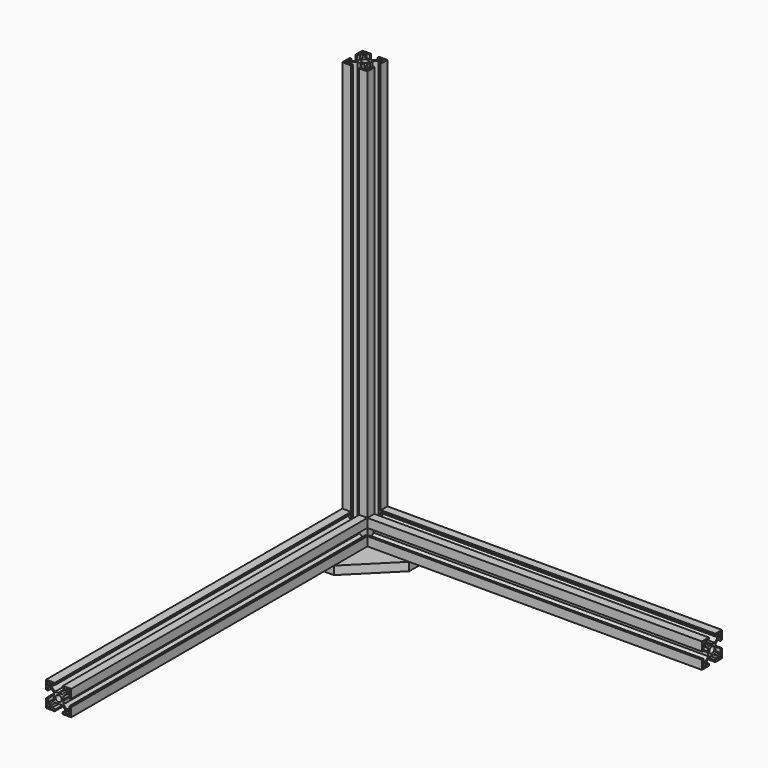
from build123d import *

# Parameters (mm, degrees)
F2_DEPTH  = 443
F1_R      = 3.7
F1_W      = 4
F1_H      = 4
F3_DEPTH  = 443.001
F7_DEPTH  = 500
F6_R      = 3.7
F6_W      = 4
F6_H      = 4
F8_DEPTH  = 500.001
F14_DEPTH = 400
F13_R     = 3.7
F13_W     = 4
F13_H     = 4
F15_DEPTH = 400.001
F19_DEPTH = 10


with BuildPart() as f2:
    # F0 (on Front) → F2 (new body)
    with BuildSketch(Plane.XZ):
        Polygon((-4.6, 15), (-15, 15), (-15, 4.6), (-14.5, 4.6), (-14.5, 4.1), (-12.8, 4.1), (-12.8, 8.399857), (-9.8, 8.399857), (-5.750143, 4.35), (-5.750143, 0.500143), (-5.25, 0), (-5.750143, -0.500143), (-5.750143, -4.35), (-9.800143, -8.4), (-12.800143, -8.4), (-12.800143, -4.1), (-14.500143, -4.1), (-14.500143, -4.286059), (-15, -4.286059), (-15, -15), (-4.6, -15), (-4.6, -14.5), (-4.085858, -14.5), (-4.085858, -12.8), (-8.4, -12.8), (-8.4, -9.8), (-4.35, -5.75), (-0.5, -5.75), (0, -5.25), (0.5, -5.75), (4.35, -5.75), (8.4, -9.8), (8.4, -12.8), (4.608557, -12.8), (4.608557, -14.5), (5.108532, -14.5), (5.108532, -15), (15, -15), (15, -4.286059), (14.5, -4.286059), (14.5, -3.786059), (12.8, -3.786059), (12.8, -8.4), (9.8, -8.4), (5.75, -4.35), (5.75, -0.5), (5.25, 0), (5.75, 0.5), (5.75, 4.35), (9.8, 8.399857), (12.8, 8.399857), (12.8, 4.1), (14.5, 4.1), (14.5, 4.595042), (15, 4.595042), (15, 14.995042), (5.108532, 14.995042), (5.108532, 14.495042), (4.608557, 14.5), (4.608557, 12.8), (8.4, 12.8), (8.4, 9.8), (4.35, 5.75), (0.5, 5.75), (0, 5.25), (-0.5, 5.75), (-4.35, 5.75), (-8.4, 9.8), (-8.4, 12.8), (-4.1, 12.8), (-4.1, 14.5), (-4.6, 14.5), align=None)
    extrude(amount=F2_DEPTH)

    # F1 (on Front) → F3 (cut, through all)
    with BuildSketch(Plane.XZ):
        Circle(F1_R)
        with Locations((11.72, 11.715042)):
            Rectangle(F1_W, F1_H)
        with Locations((11.72, -11.72)):
            Rectangle(F1_W, F1_H)
        with Locations((-11.72, -11.72)):
            Rectangle(F1_W, F1_H)
        with Locations((-11.72, 11.719589)):
            Rectangle(F1_W, F1_H)
    extrude(amount=F3_DEPTH, mode=Mode.SUBTRACT)


with BuildPart() as f7:
    # F5 (on offset) → F7 (new body)
    with BuildSketch(Plane.XY.offset(15)):
        Polygon((-4.65688, 14.974191), (-15.05688, 14.974191), (-15.05688, 4.574191), (-14.55688, 4.574191), (-14.55688, 4.074191), (-12.85688, 4.074191), (-12.85688, 8.374048), (-9.85688, 8.374048), (-5.807023, 4.324191), (-5.807023, 0.474333), (-5.30688, -0.025809), (-5.807023, -0.525952), (-5.807023, -4.375809), (-9.857023, -8.425809), (-12.857023, -8.425809), (-12.857023, -4.125809), (-14.557023, -4.125809), (-14.557023, -4.311869), (-15.05688, -4.311869), (-15.05688, -15.025809), (-4.65688, -15.025809), (-4.65688, -14.525809), (-4.142738, -14.525809), (-4.142738, -12.825809), (-8.45688, -12.825809), (-8.45688, -9.825809), (-4.40688, -5.775809), (-0.55688, -5.775809), (-0.05688, -5.275809), (0.44312, -5.775809), (4.29312, -5.775809), (8.34312, -9.825809), (8.34312, -12.825809), (4.551677, -12.825809), (4.551677, -14.525809), (5.051652, -14.525809), (5.051652, -15.025809), (14.94312, -15.025809), (14.94312, -4.311869), (14.44312, -4.311869), (14.44312, -3.811869), (12.74312, -3.811869), (12.74312, -8.425809), (9.74312, -8.425809), (5.69312, -4.375809), (5.69312, -0.525809), (5.19312, -0.025809), (5.69312, 0.474191), (5.69312, 4.324191), (9.74312, 8.374048), (12.74312, 8.374048), (12.74312, 4.074191), (14.44312, 4.074191), (14.44312, 4.569232), (14.94312, 4.569232), (14.94312, 14.969232), (5.051652, 14.969232), (5.051652, 14.469232), (4.551677, 14.474191), (4.551677, 12.774191), (8.34312, 12.774191), (8.34312, 9.774191), (4.29312, 5.724191), (0.44312, 5.724191), (-0.05688, 5.224191), (-0.55688, 5.724191), (-4.40688, 5.724191), (-8.45688, 9.774191), (-8.45688, 12.774191), (-4.15688, 12.774191), (-4.15688, 14.474191), (-4.65688, 14.474191), align=None)
    extrude(amount=F7_DEPTH)

    # F6 (on offset) → F8 (cut, through all)
    with BuildSketch(Plane.XY.offset(15)):
        Circle(F6_R)
        with Locations((11.66312, 11.689232)):
            Rectangle(F6_W, F6_H)
        with Locations((11.66312, -11.745809)):
            Rectangle(F6_W, F6_H)
        with Locations((-11.77688, -11.745809)):
            Rectangle(F6_W, F6_H)
        with Locations((-11.77688, 11.694191)):
            Rectangle(F6_W, F6_H)
    extrude(amount=F8_DEPTH, mode=Mode.SUBTRACT)


with BuildPart() as f7_1:
    # F9: moved
    add(f7.part.moved(Location((0, 15, 0))))


with BuildPart() as f7_2:
    # F10: moved
    add(f7_1.part.moved(Location((0, 0, -30))))


with BuildPart() as f14:
    # F12 (on offset) → F14 (new body)
    with BuildSketch(Plane.YZ.offset(15)):
        Polygon((-4.65688, 14.974191), (-15.05688, 14.974191), (-15.05688, 4.574191), (-14.55688, 4.574191), (-14.55688, 4.074191), (-12.85688, 4.074191), (-12.85688, 8.374048), (-9.85688, 8.374048), (-5.807023, 4.324191), (-5.807023, 0.474333), (-5.30688, -0.025809), (-5.807023, -0.525952), (-5.807023, -4.375809), (-9.857023, -8.425809), (-12.857023, -8.425809), (-12.857023, -4.125809), (-14.557023, -4.125809), (-14.557023, -4.311869), (-15.05688, -4.311869), (-15.05688, -15.025809), (-4.65688, -15.025809), (-4.65688, -14.525809), (-4.142738, -14.525809), (-4.142738, -12.825809), (-8.45688, -12.825809), (-8.45688, -9.825809), (-4.40688, -5.775809), (-0.55688, -5.775809), (-0.05688, -5.275809), (0.44312, -5.775809), (4.29312, -5.775809), (8.34312, -9.825809), (8.34312, -12.825809), (4.551677, -12.825809), (4.551677, -14.525809), (5.051652, -14.525809), (5.051652, -15.025809), (14.94312, -15.025809), (14.94312, -4.311869), (14.44312, -4.311869), (14.44312, -3.811869), (12.74312, -3.811869), (12.74312, -8.425809), (9.74312, -8.425809), (5.69312, -4.375809), (5.69312, -0.525809), (5.19312, -0.025809), (5.69312, 0.474191), (5.69312, 4.324191), (9.74312, 8.374048), (12.74312, 8.374048), (12.74312, 4.074191), (14.44312, 4.074191), (14.44312, 4.569232), (14.94312, 4.569232), (14.94312, 14.969232), (5.051652, 14.969232), (5.051652, 14.469232), (4.551677, 14.474191), (4.551677, 12.774191), (8.34312, 12.774191), (8.34312, 9.774191), (4.29312, 5.724191), (0.44312, 5.724191), (-0.05688, 5.224191), (-0.55688, 5.724191), (-4.40688, 5.724191), (-8.45688, 9.774191), (-8.45688, 12.774191), (-4.15688, 12.774191), (-4.15688, 14.474191), (-4.65688, 14.474191), align=None)
    extrude(amount=F14_DEPTH)

    # F13 (on offset) → F15 (cut, through all)
    with BuildSketch(Plane.YZ.offset(15)):
        Circle(F13_R)
        with Locations((11.66312, 11.689232)):
            Rectangle(F13_W, F13_H)
        with Locations((11.66312, -11.745809)):
            Rectangle(F13_W, F13_H)
        with Locations((-11.77688, -11.745809)):
            Rectangle(F13_W, F13_H)
        with Locations((-11.77688, 11.694191)):
            Rectangle(F13_W, F13_H)
    extrude(amount=F15_DEPTH, mode=Mode.SUBTRACT)


with BuildPart() as f14_1:
    # F16: moved
    add(f14.part.moved(Location((0, 15, 0))))


with BuildPart() as f19:
    # F18 (on offset) → F19 (new body)
    with BuildSketch(Plane.XY.offset(-25)):
        Polygon((-15.05688, 29.974191), (-15.05688, -50.025809), (14.94312, -50.025809), (64.952799, 0), (64.94312, 30), align=None)
    extrude(amount=F19_DEPTH)


solid = Compound([f2.part, f7_2.part, f14_1.part, f19.part])
